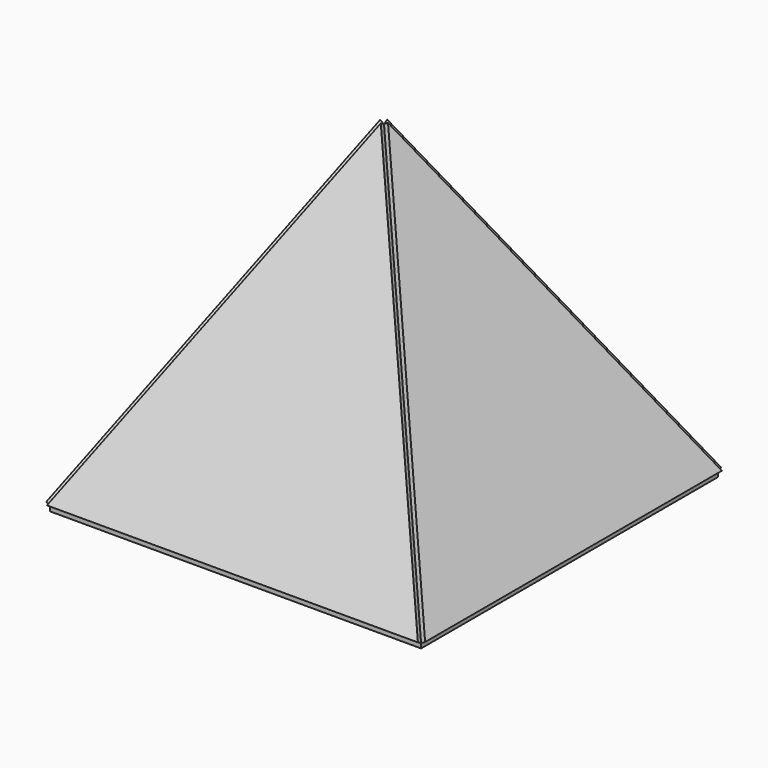
from build123d import *

# Parameters (mm, degrees)
F0_W     = 400
F0_H     = 400
F1_DEPTH = 5
F4_DEPTH = 5
F6_COUNT = 4


with BuildPart() as f1:
    # F0 (on Top) → F1 (new body)
    with BuildSketch(Plane.XY):
        Rectangle(F0_W, F0_H)
    extrude(amount=F1_DEPTH)


with BuildPart() as f4:
    # F3 (on face) → F4 (new body)
    with BuildSketch(Plane(origin=(0, -152.165064, 87.85254), x_dir=(-1, 0, 0), z_dir=(0, 0.866025, -0.5))):
        Polygon((-200, -95.669873), (200, -95.669873), (0, 304.330127), align=None)
    extrude(amount=-F4_DEPTH)


with BuildPart() as f6_1:
    # F6: instance of F4
    add(f4.part.rotate(Axis((0, 0, 177.045569), (0, 0, 1)), 1 * 360 / F6_COUNT))


with BuildPart() as f6_2:
    # F6: instance of F4
    add(f4.part.rotate(Axis((0, 0, 177.045569), (0, 0, 1)), 2 * 360 / F6_COUNT))


with BuildPart() as f6_3:
    # F6: instance of F4
    add(f4.part.rotate(Axis((0, 0, 177.045569), (0, 0, 1)), 3 * 360 / F6_COUNT))


solid = Compound([f1.part, f4.part, f6_1.part, f6_2.part, f6_3.part])
